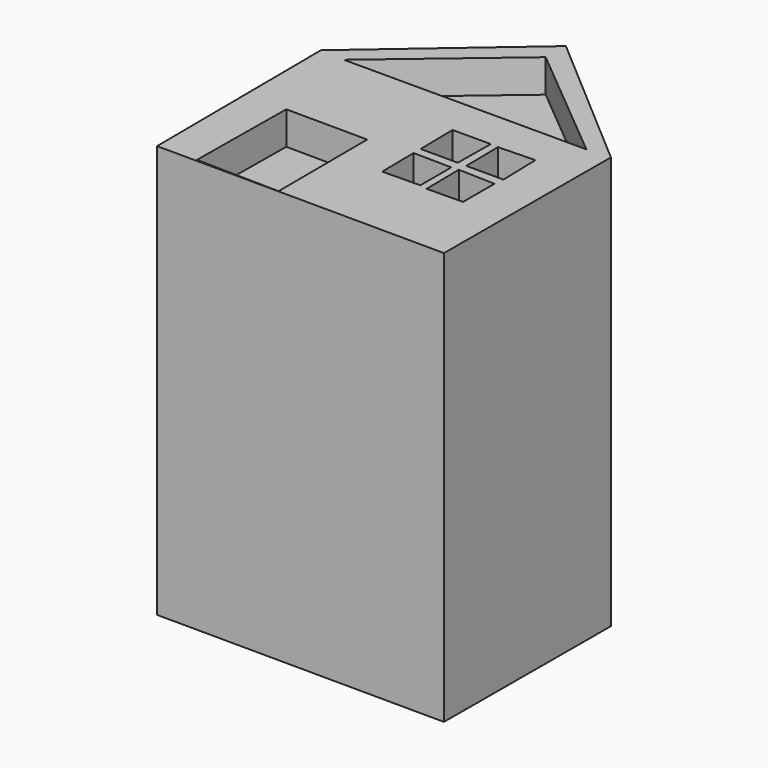
from build123d import *

# Parameters (mm, degrees)
PAD_DEPTH       = 100
POCKET_DEPTH    = 8
POCKET001_DEPTH = 8


with BuildPart() as part:
    # Sketch → Pad (new body)
    with BuildSketch(Plane.XY):
        Polygon((-79.562302, -30.221603), (-9.79176, -30.556234), (-9.624449, 19.805712), (-44.760693, 50.089813), (-79.896942, 19.805712), align=None)
    extrude(amount=PAD_DEPTH)

    # Sketch001 (on Face7 of Pad) → Pocket (cut)
    with BuildSketch(Plane.XY.offset(100)):
        Polygon((-74.055283, 19.460539), (-44.906891, 44.149063), (-15.280657, 19.460539), align=None)
    extrude(amount=-POCKET_DEPTH, mode=Mode.SUBTRACT)

    # Sketch002 (on Face5 of Pocket) → Pocket001 (cut)
    with BuildSketch(Plane.XY.offset(100)):
        Polygon((-70.148895, -29.911121), (-69.888077, -3.17746), (-50.196453, -3.307868), (-50.066044, -30.302345), align=None)
        Polygon((-40.02462, 9.86335), (-39.894211, 0), (-30.896048, 0), (-30.765642, 9.86335), align=None)
        Polygon((-28.939928, 9.732944), (-20.072174, 9.993761), (-19.811361, 0), (-28.809523, 0), align=None)
        Polygon((-39.894211, -2.134194), (-30.635239, -2.264603), (-30.635239, -11.653986), (-39.763805, -11.784394), align=None)
        Polygon((-28.939928, -2.134194), (-20.072174, -2.395011), (-20.072174, -11.914803), (-28.809523, -12.045211), align=None)
    extrude(amount=-POCKET001_DEPTH, mode=Mode.SUBTRACT)


solid = part.part
